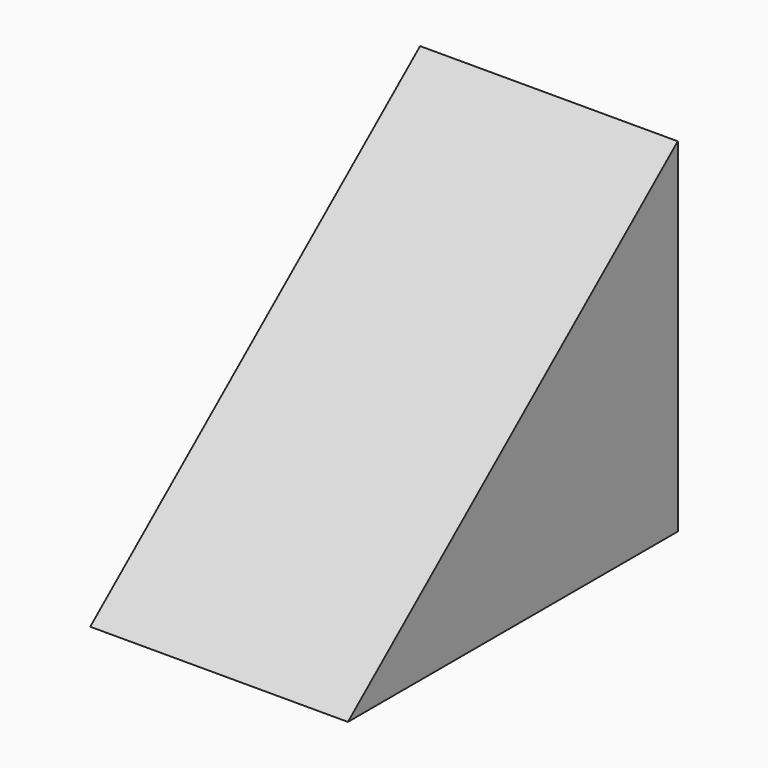
from build123d import *

# Parameters (mm, degrees)
F1_DEPTH = 30
F2_R     = 13
F3_DEPTH = 30
F5_R     = 5
F6_DEPTH = 25


with BuildPart() as f1:
    # F0 (on Right) → F1 (new body, symmetric)
    with BuildSketch(Plane.YZ):
        Polygon((48, 40), (-48, -40), (48, -40), align=None)
    extrude(amount=F1_DEPTH, both=True)

    # F2 (on face) → F3 (cut)
    with BuildSketch(Plane(origin=(0, 48, 0), x_dir=(-1, 0, 0), z_dir=(0, 1, 0))):
        with Locations((0, -10)):
            Circle(F2_R)
    extrude(amount=-F3_DEPTH, mode=Mode.SUBTRACT)

    # F5 (on offset) → F6 (cut)
    with BuildSketch(Plane(origin=(0, 12.803688, -15.364426), x_dir=(1, 0, 0), z_dir=(0, -0.640184, 0.768221))):
        with Locations((20, -22.481997)):
            Circle(F5_R)
        with Locations((20, 37.518003)):
            Circle(F5_R)
        with Locations((-20, -22.481997)):
            Circle(F5_R)
        with Locations((-20, 37.518003)):
            Circle(F5_R)
    extrude(amount=-F6_DEPTH, mode=Mode.SUBTRACT)


solid = f1.part
